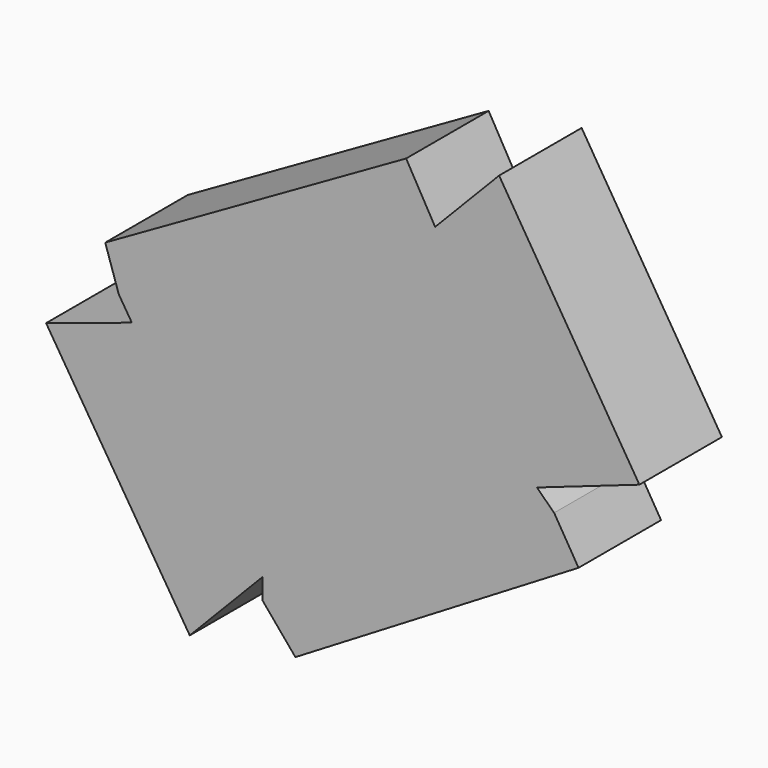
from build123d import *

# Parameters (mm, degrees)
F1_DEPTH = 8.382


with BuildPart() as f1:
    # F0 (on Front) → F1 (new body)
    with BuildSketch(Plane.XZ):
        Polygon((-12.636772, 1.991665), (-17.343119, 0.441339), (-24.312051, -1.854309), (-12.636772, -20.397399), (-6.730455, -14.300559), (-4.054186, -11.53796), align=None)
        Polygon((4.395189, 12.306461), (7.302871, 15.307937), (4.944825, 19.435907), (-19.505887, 5.468773), (-18.405734, 2.129021), (-17.343119, 0.441339), (-12.636772, 1.991665), (-4.054186, -11.53796), (-6.730455, -14.300559), (-6.730455, -15.967679), (-4.054186, -19.161193), (18.955158, -5.288215), (16.973184, -2.000967), (15.571872, -0.643444), (12.499417, -1.716953), align=None)
        Polygon((12.499417, 20.672111), (8.241373, 16.276713), (7.302871, 15.307937), (4.395189, 12.306461), (12.499417, -1.716953), (15.571872, -0.643444), (23.899982, 2.266378), align=None)
    extrude(amount=F1_DEPTH)


solid = f1.part
